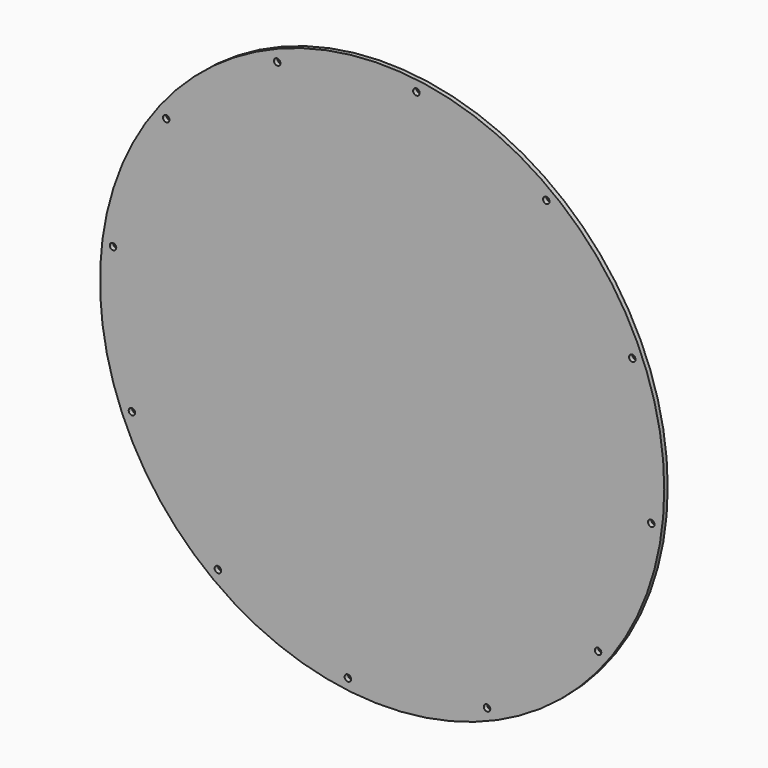
from build123d import *

# Parameters (mm, degrees)
F0_R     = 130
F0_R_2   = 1.5
F1_DEPTH = 2


with BuildPart() as f1:
    # F0 (on Front) → F1 (new body)
    with BuildSketch(Plane.XZ):
        Circle(F0_R)
        with Locations((-75.66891, -99.494804)):
            Circle(F0_R_2, mode=Mode.SUBTRACT)
        with Locations((-15.783797, -123.999483)):
            Circle(F0_R_2, mode=Mode.SUBTRACT)
        with Locations((-115.278601, -48.330573)):
            Circle(F0_R_2, mode=Mode.SUBTRACT)
        with Locations((48.330573, -115.278601)):
            Circle(F0_R_2, mode=Mode.SUBTRACT)
        with Locations((99.494804, -75.66891)):
            Circle(F0_R_2, mode=Mode.SUBTRACT)
        with Locations((123.999483, -15.783797)):
            Circle(F0_R_2, mode=Mode.SUBTRACT)
        with Locations((-123.999483, 15.783797)):
            Circle(F0_R_2, mode=Mode.SUBTRACT)
        with Locations((-99.494804, 75.66891)):
            Circle(F0_R_2, mode=Mode.SUBTRACT)
        with Locations((-48.330573, 115.278601)):
            Circle(F0_R_2, mode=Mode.SUBTRACT)
        with Locations((115.278601, 48.330573)):
            Circle(F0_R_2, mode=Mode.SUBTRACT)
        with Locations((15.783797, 123.999483)):
            Circle(F0_R_2, mode=Mode.SUBTRACT)
        with Locations((75.66891, 99.494804)):
            Circle(F0_R_2, mode=Mode.SUBTRACT)
    extrude(amount=F1_DEPTH)


solid = f1.part
